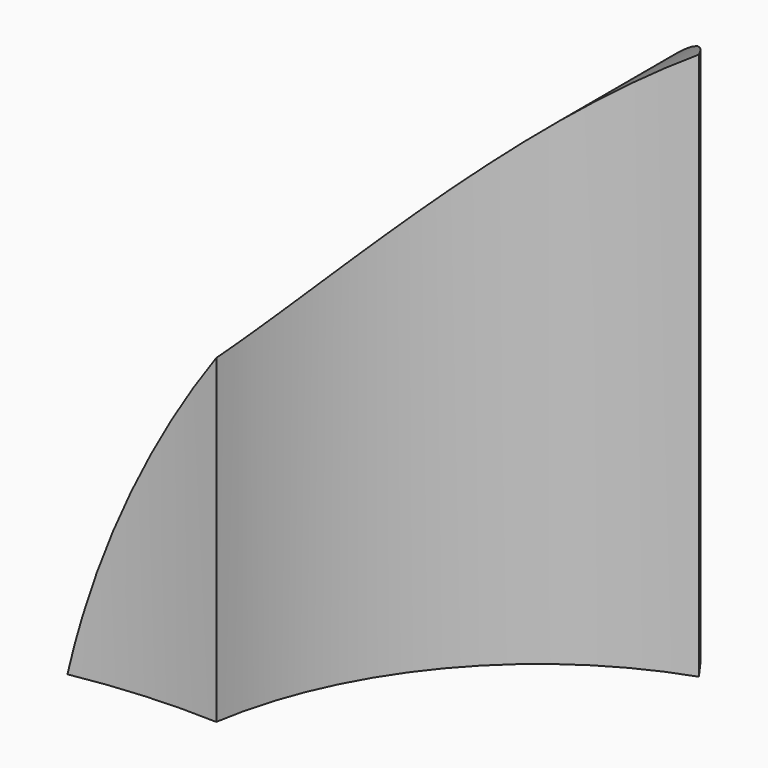
from build123d import *

# Parameters (mm, degrees)
F1_DEPTH = 168.3612558991
F2_R     = 248.5661214156
F3_DEPTH = 465.3762876987


with BuildPart() as f1:
    # F0 (on Top) → F1 (new body)
    with BuildSketch(Plane.XY):
        with BuildLine():
            ThreePointArc((8.0145221095, 246.9024653068), (32.3936051962, 300.7875887608), (81.0866635692, 334.3574009155))
            ThreePointArc((81.0866635692, 334.3574009155), (-53.0382414334, 362.1621199722), (-82.0123294419, 228.2849569913))
            ThreePointArc((-82.0123294419, 228.2849569913), (-38.1519563911, 243.1694146609), (8.0145221095, 246.9024653068))
        make_face()
    extrude(amount=F1_DEPTH)


with BuildPart() as f3:
    # F2 (on Front) → F3 (new body)
    with BuildSketch(Plane.XZ):
        with Locations((209.6148729324, -50.4343286157)):
            Circle(F2_R)
    extrude(amount=-F3_DEPTH)


with BuildPart() as f1_1:
    add(f1.part)

    # F4: intersect F3
    add(f3.part, mode=Mode.INTERSECT)


solid = f1_1.part
